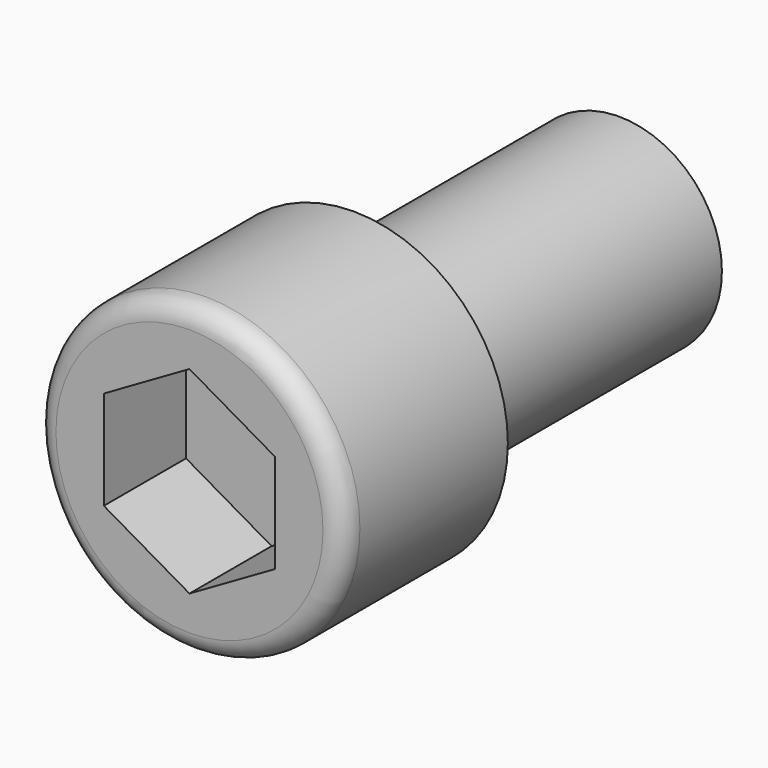
from build123d import *

# Parameters (mm, degrees)
POCKET_DEPTH = 6


with BuildPart() as part:
    # Sketch → Revolution (revolve)
    with BuildSketch(Plane.XY):
        with BuildLine():
            Line((6, 0), (9, 0))
            Line((9, 0), (9, -10.8))
            ThreePointArc((7.8, -12), (8.648528, -11.648528), (9, -10.8))
            Line((7.8, -12), (0, -12))
            Line((0, -12), (0, 20))
            Line((0, 20), (4.925, 20))
            Line((4.925, 20), (6, 19.379348))
            Line((6, 19.379348), (6, 0))
        make_face()
    revolve(axis=Axis((0, 0, 0), (0, 1, 0)))

    # Sketch001 → Pocket (cut)
    with BuildSketch(Plane.XZ.offset(12)):
        Polygon((-5, 2.886751), (-5, -2.886751), (0, -5.773503), (5, -2.886751), (5, 2.886751), (0, 5.773503), align=None)
    extrude(amount=-POCKET_DEPTH, mode=Mode.SUBTRACT)


solid = part.part
